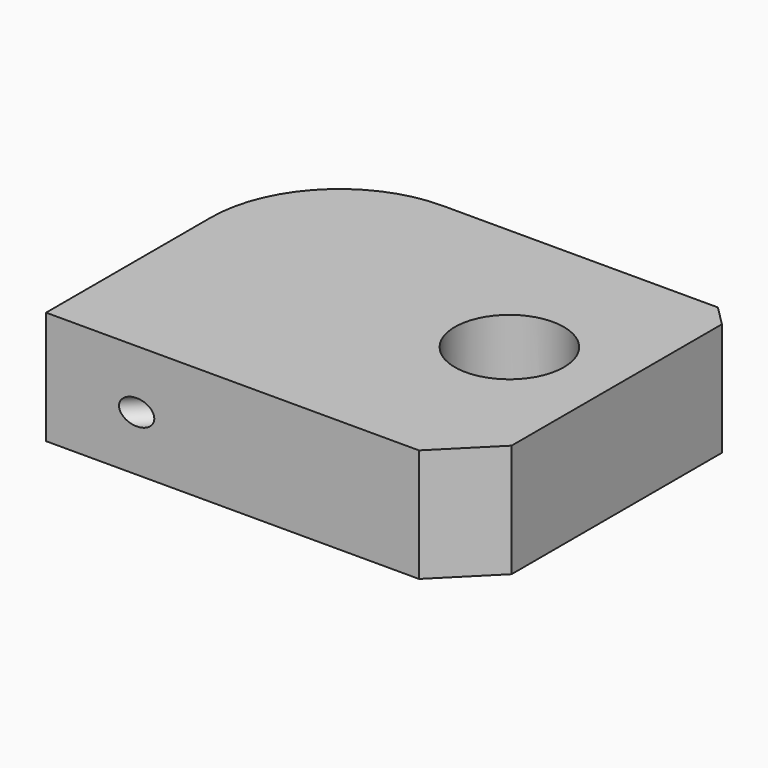
from build123d import *

# Parameters (mm, degrees)
F0_R     = 5.385416
F1_DEPTH = 11.176
F2_SIZE  = 5.08
F3_SIZE  = 2
F4_R     = 1.230304
F5_DEPTH = 64.516


with BuildPart() as f1:
    # F0 (on Top) → F1 (new body)
    with BuildSketch(Plane.XY):
        with BuildLine():
            Line((-23.319686, 7.332434), (-23.319686, -13.010174))
            Line((-23.319686, -13.010174), (18.583678, -13.010174))
            Line((18.583678, -13.010174), (18.583678, 20.032434))
            Line((18.583678, 20.032434), (-10.619686, 20.032434))
            ThreePointArc((-10.619686, 20.032434), (-19.599942, 16.31269), (-23.319686, 7.332434))
        make_face()
        with Locations((8.170361, 4.813509)):
            Circle(F0_R, mode=Mode.SUBTRACT)
    extrude(amount=F1_DEPTH)

    # F2
    f2_edges = [f1.edges().sort_by_distance(p)[0] for p in [
        (18.583678, -13.010174, 5.588),
    ]]
    chamfer(f2_edges, length=F2_SIZE)

    # F3
    f3_edges = [f1.edges().sort_by_distance(p)[0] for p in [
        (18.583678, 20.032434, 5.588),
    ]]
    chamfer(f3_edges, length=F3_SIZE)

    # F4 (on face) → F5 (cut)
    with BuildSketch(Plane(origin=(18.308056, 18.308056, 0), x_dir=(-0.707107, 0.707107, 0), z_dir=(0.707107, 0.707107, 0))):
        with Locations((0.965202, 5.429061)):
            Circle(F4_R)
    extrude(amount=-F5_DEPTH, mode=Mode.SUBTRACT)


solid = f1.part
